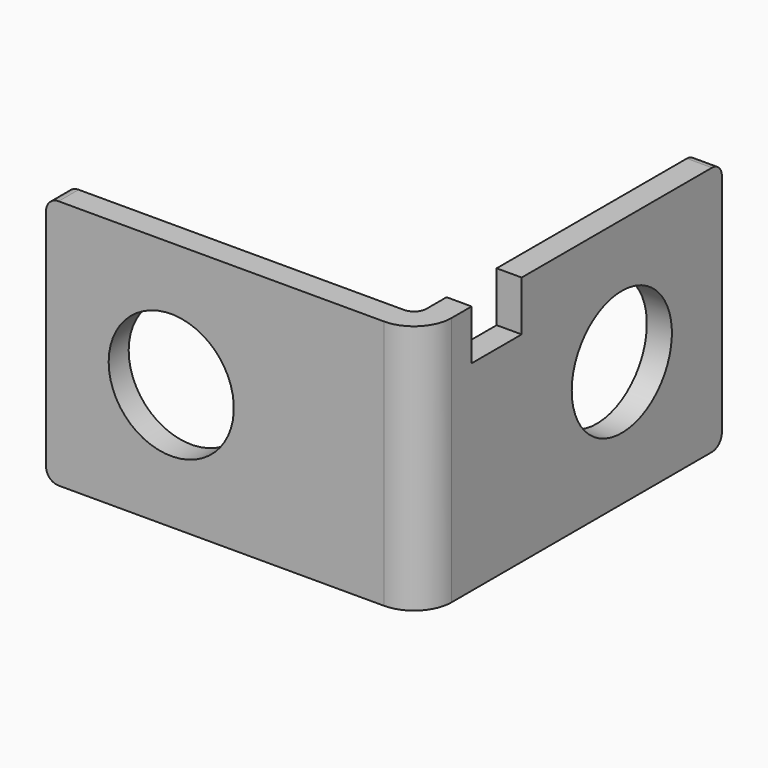
from build123d import *

# Parameters (mm, degrees)
F0_W     = 30
F0_H     = 20
F1_DEPTH = 2
F2_W     = 2
F2_H     = 20
F3_DEPTH = 28
F4_R     = 5
F5_DEPTH = 2
F6_R     = 5
F7_DEPTH = 2
F8_W     = 5
F8_H     = 4
F9_DEPTH = 2
F10_R    = 1
F11_R    = 3


with BuildPart() as f1:
    # F0 (on Front) → F1 (new body)
    with BuildSketch(Plane.XZ):
        with Locations((15, 10)):
            Rectangle(F0_W, F0_H)
    extrude(amount=-F1_DEPTH)

    # F2 (on face) → F3 (join)
    with BuildSketch(Plane(origin=(0, 2, 0), x_dir=(-1, 0, 0), z_dir=(0, 1, 0))):
        with Locations((-29, 10)):
            Rectangle(F2_W, F2_H)
    extrude(amount=F3_DEPTH)

    # F4 (on face) → F5 (cut, through all)
    with BuildSketch(Plane(origin=(0, 2, 0), x_dir=(-1, 0, 0), z_dir=(0, 1, 0))):
        with Locations((-10, 10)):
            Circle(F4_R)
    extrude(amount=-F5_DEPTH, mode=Mode.SUBTRACT)

    # F6 (on face) → F7 (cut, through all)
    with BuildSketch(Plane(origin=(28, 0, 0), x_dir=(0, -1, 0), z_dir=(-1, 0, 0))):
        with Locations((-20, 10)):
            Circle(F6_R)
    extrude(amount=-F7_DEPTH, mode=Mode.SUBTRACT)

    # F8 (on face) → F9 (cut, through all)
    with BuildSketch(Plane(origin=(28, 0, 0), x_dir=(0, -1, 0), z_dir=(-1, 0, 0))):
        with Locations((-7.5, 18)):
            Rectangle(F8_W, F8_H)
    extrude(amount=-F9_DEPTH, mode=Mode.SUBTRACT)

    # F10
    f10_edges = [f1.edges().sort_by_distance(p)[0] for p in [
        (28, 2, 10),
        (0, 1, 20),
        (0, 1, 0),
        (29, 30, 20),
        (29, 30, 0),
    ]]
    fillet(f10_edges, radius=F10_R)

    # F11
    f11_edges = [f1.edges().sort_by_distance(p)[0] for p in [
        (30, 0, 10),
    ]]
    fillet(f11_edges, radius=F11_R)


solid = f1.part
